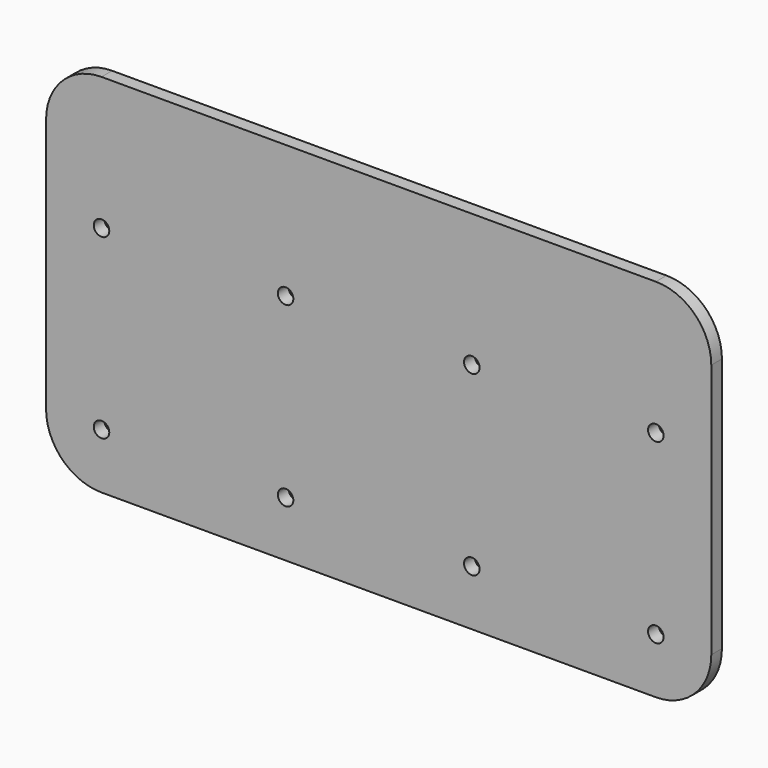
from build123d import *

# Parameters (mm, degrees)
F0_R     = 7
F1_DEPTH = 12


with BuildPart() as f1:
    # F0 (on Front) → F1 (new body)
    with BuildSketch(Plane.XZ):
        with BuildLine():
            ThreePointArc((0, 50), (14.644661, 14.644661), (50, 0))
            Line((50, 0), (550, 0))
            ThreePointArc((550, 0), (585.355339, 14.644661), (600, 50))
            Line((600, 50), (600, 280))
            ThreePointArc((600, 280), (585.355339, 315.355339), (550, 330))
            Line((550, 330), (50, 330))
            ThreePointArc((50, 330), (14.644661, 315.355339), (0, 280))
            Line((0, 280), (0, 50))
        make_face()
        with Locations((50, 50)):
            Circle(F0_R, mode=Mode.SUBTRACT)
        with Locations((216, 50)):
            Circle(F0_R, mode=Mode.SUBTRACT)
        with Locations((384, 50)):
            Circle(F0_R, mode=Mode.SUBTRACT)
        with Locations((550, 50)):
            Circle(F0_R, mode=Mode.SUBTRACT)
        with Locations((50, 210)):
            Circle(F0_R, mode=Mode.SUBTRACT)
        with Locations((216, 210)):
            Circle(F0_R, mode=Mode.SUBTRACT)
        with Locations((384, 210)):
            Circle(F0_R, mode=Mode.SUBTRACT)
        with Locations((550, 210)):
            Circle(F0_R, mode=Mode.SUBTRACT)
    extrude(amount=F1_DEPTH)


solid = f1.part
